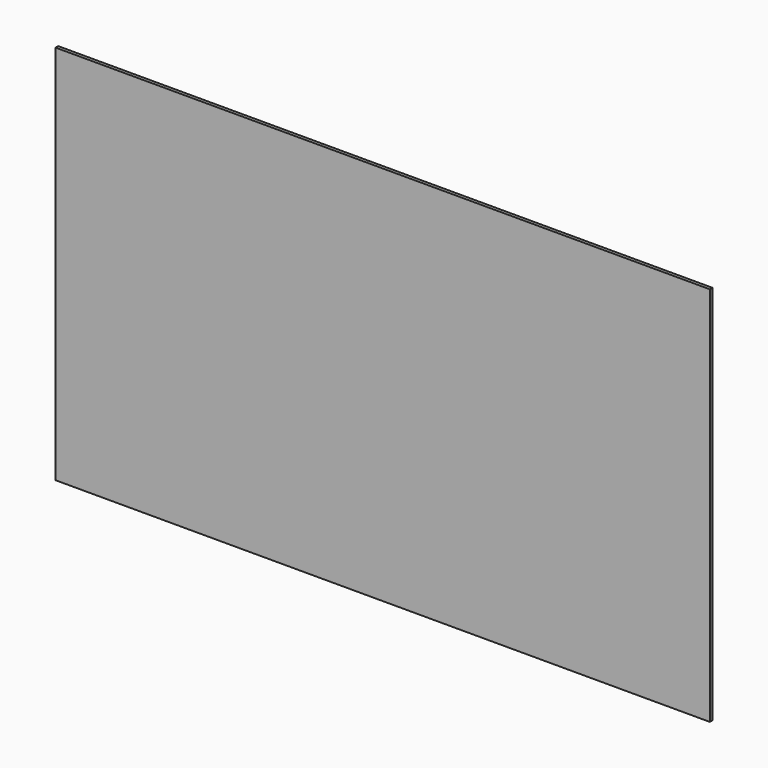
from build123d import *

# Parameters (mm, degrees)
F0_W     = 101.141966
F0_H     = 58.878034
F1_DEPTH = 0.254
F2_DEPTH = 0.254


with BuildPart() as f1:
    # F0 (on Front) → F1 (new body)
    with BuildSketch(Plane.XZ):
        Rectangle(F0_W, F0_H)
    extrude(amount=F1_DEPTH)

    # F0 (on Front) → F2 (join)
    with BuildSketch(Plane.XZ):
        Rectangle(F0_W, F0_H)
    extrude(amount=-F2_DEPTH)


solid = f1.part
